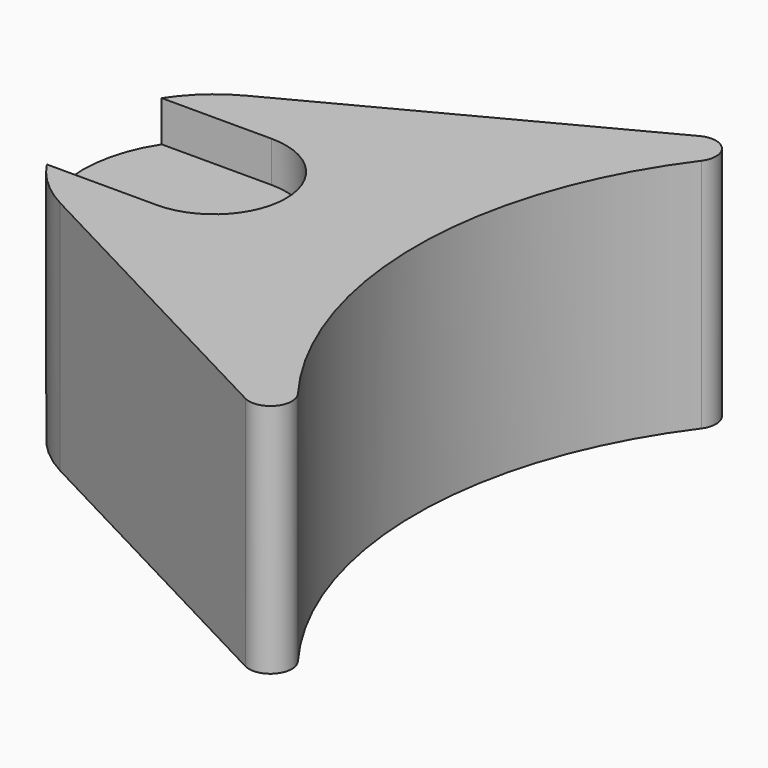
from build123d import *

# Parameters (mm, degrees)
F1_DEPTH = 27.94
F2_W     = 27.048528
F2_H     = 17.018
F3_DEPTH = 4.826
F4_R     = 2.54


with BuildPart() as f1:
    # F0 (on Top) → F1 (new body)
    with BuildSketch(Plane.XY):
        with BuildLine():
            ThreePointArc((-25.211154, -43.172467), (-49.99464, -0.013258), (-25.234047, 43.15909))
            Line((-25.234047, 43.15909), (-81.138089, 13.751116))
            ThreePointArc((-81.138089, 13.751116), (-89.453911, -0.023722), (-81.130784, -13.794148))
            Line((-81.130784, -13.794148), (-25.211154, -43.172467))
        make_face()
    extrude(amount=F1_DEPTH)

    # F2 (on face) → F3 (cut)
    with BuildSketch(Plane.XY.offset(27.94)):
        with BuildLine():
            Line((-73.894091, 8.489404), (-73.894091, -8.528596))
            ThreePointArc((-73.894091, -8.528596), (-65.385091, -0.019596), (-73.894091, 8.489404))
        make_face()
        with Locations((-87.418355, -0.019596)):
            Rectangle(F2_W, F2_H)
    extrude(amount=-F3_DEPTH, mode=Mode.SUBTRACT)

    # F4
    f4_edges = [f1.edges().sort_by_distance(p)[0] for p in [
        (-25.211154, -43.172467, 13.97),
        (-25.234047, 43.15909, 13.97),
    ]]
    fillet(f4_edges, radius=F4_R)


solid = f1.part
